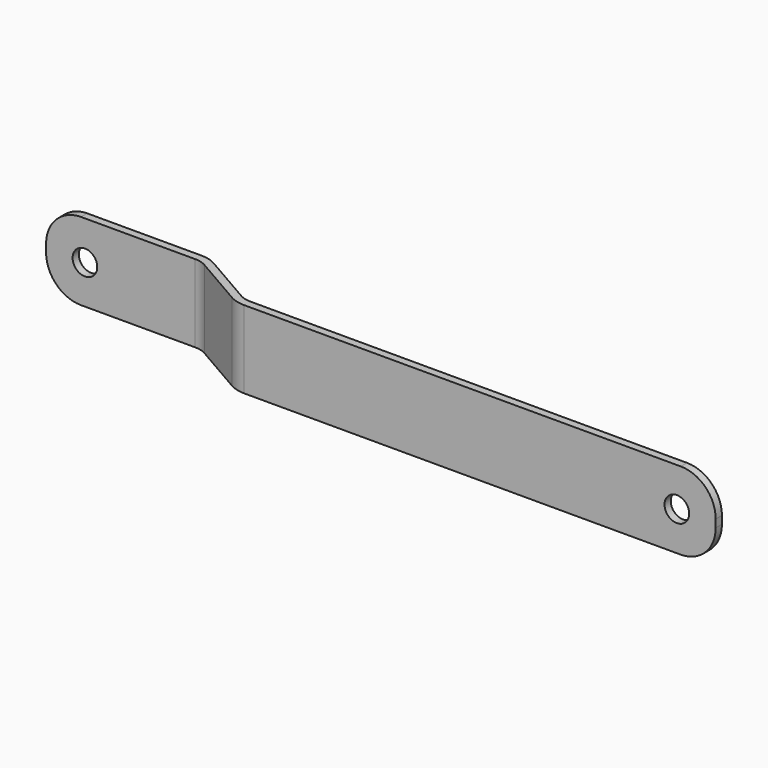
from build123d import *

# Parameters (mm, degrees)
F1_DEPTH = 5
F3_D     = 3.175
F4_R     = 4.5


with BuildPart() as f1:
    # F0 (on Top) → F1 (new body, symmetric)
    with BuildSketch(Plane.XY):
        with BuildLine():
            Line((-5, 12), (-5, 11))
            Line((-5, 11), (14.196152, 11))
            ThreePointArc((14.196152, 11), (14.97261, 10.897777), (15.696152, 10.598076))
            Line((15.696152, 10.598076), (22.299038, 6.785898))
            ThreePointArc((22.299038, 6.785898), (23.263762, 6.386297), (24.299038, 6.25))
            Line((24.299038, 6.25), (85, 6.25))
            Line((85, 6.25), (85, 7.25))
            Line((85, 7.25), (24.299038, 7.25))
            ThreePointArc((24.299038, 7.25), (23.522581, 7.352223), (22.799038, 7.651924))
            Line((22.799038, 7.651924), (16.196152, 11.464102))
            ThreePointArc((16.196152, 11.464102), (15.231429, 11.863703), (14.196152, 12))
            Line((14.196152, 12), (-5, 12))
        make_face()
    extrude(amount=F1_DEPTH, both=True)

    # F3 (through all)
    with Locations(Plane.XZ):
        with Locations((0, 0), (80, 0)):
            Hole(F3_D / 2)

    # F4
    f4_edges = [f1.edges().sort_by_distance(p)[0] for p in [
        (85, 6.75, 5),
        (85, 6.75, -5),
        (-5, 11.5, 5),
        (-5, 11.5, -5),
    ]]
    fillet(f4_edges, radius=F4_R)


solid = f1.part
